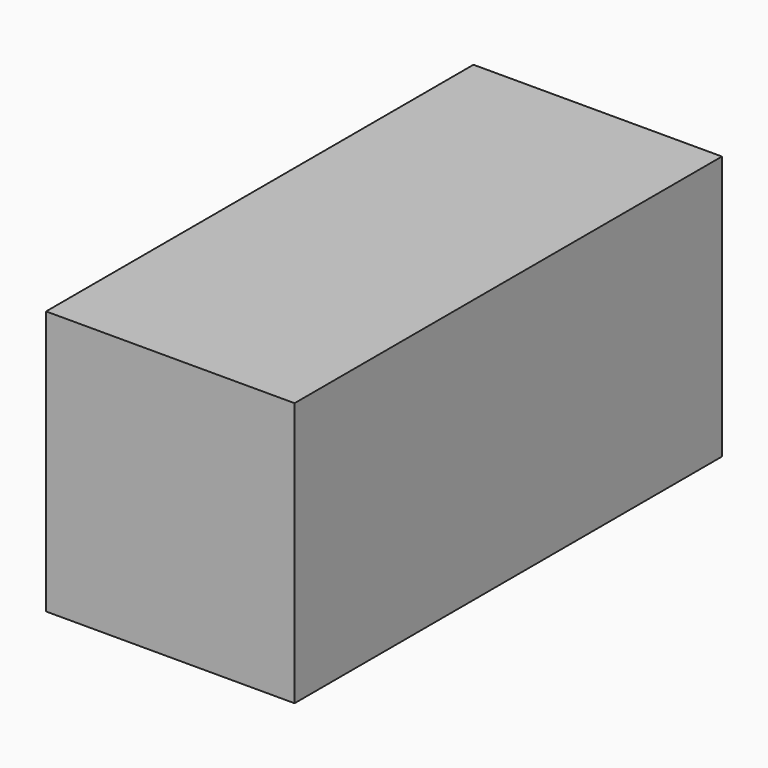
from build123d import *

# Parameters (mm, degrees)
F0_W     = 161.25001
F0_H     = 79.744794
F1_DEPTH = 75
F3_W     = 34.66875
F3_H     = 60.200002
F4_DEPTH = 76.6


with BuildPart() as f1:
    # F0 (on Right) → F1 (new body)
    with BuildSketch(Plane.YZ):
        Rectangle(F0_W, F0_H)
    extrude(amount=F1_DEPTH)

    # F3 (on offset) → F4 (cut)
    with BuildSketch(Plane.XY.offset(-40.8)):
        with Locations((27.143751, -3.093423)):
            Rectangle(F3_W, F3_H)
    extrude(amount=F4_DEPTH, mode=Mode.SUBTRACT)


solid = f1.part
